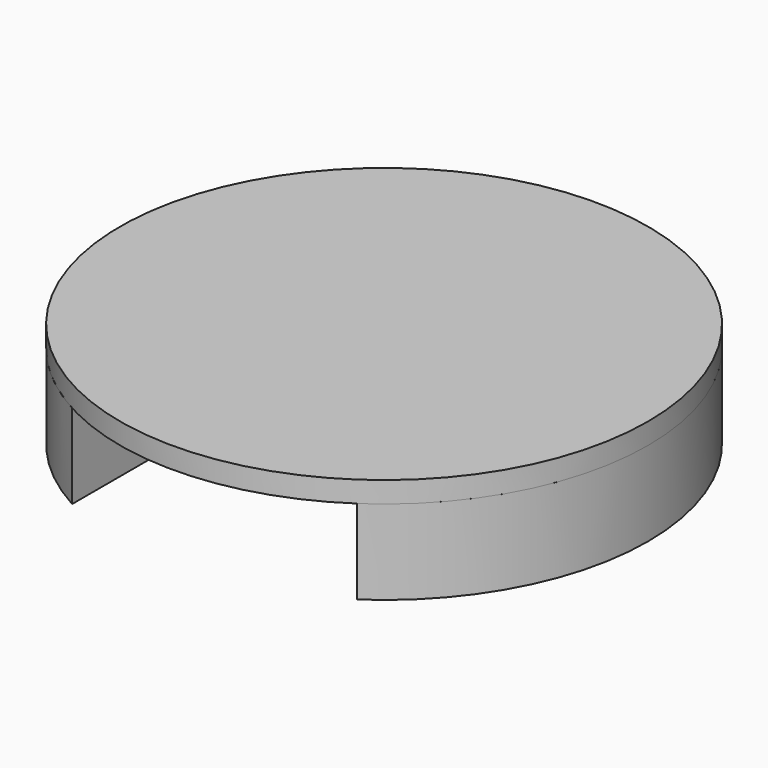
from build123d import *

# Parameters (mm, degrees)
F1_DEPTH = 508
F3_R     = 1587.5
F4_DEPTH = 127


with BuildPart() as f1:
    # F0 (on Top) → F1 (new body)
    with BuildSketch(Plane.XY):
        with BuildLine():
            Line((-762, -1392.6637246658), (-762, 1392.6637246658))
            ThreePointArc((-762, 1392.6637246658), (-1587.5, 0), (-762, -1392.6637246658))
        make_face()
    extrude(amount=F1_DEPTH)


with BuildPart() as f1b:
    # F0 (on Top) → F1, piece 2 (new body)
    with BuildSketch(Plane.XY):
        with BuildLine():
            ThreePointArc((889, -1315.2320137527), (1402.0420375296, -744.6035018719), (1587.5, 0))
            ThreePointArc((1587.5, 0), (1402.0420375296, 744.6035018719), (889, 1315.2320137527))
            Line((889, 1315.2320137527), (889, -1315.2320137527))
        make_face()
    extrude(amount=F1_DEPTH)


with BuildPart() as f4:
    # F3 (on 3pt) → F4 (new body)
    with BuildSketch(Plane.XY.offset(508)):
        Circle(F3_R)
    extrude(amount=F4_DEPTH)


solid = Compound([f1.part, f1b.part, f4.part])
